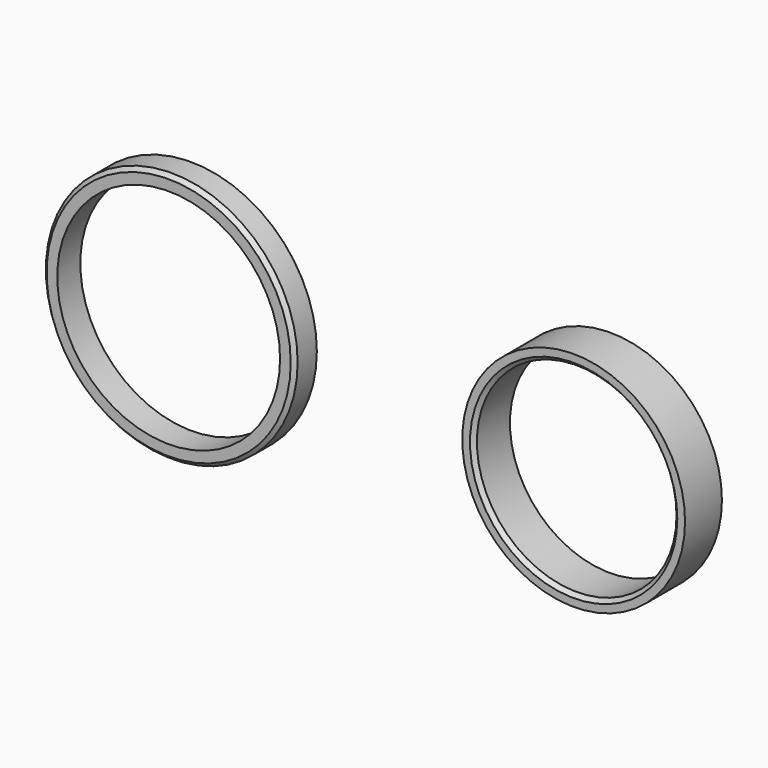
from build123d import *

# Parameters (mm, degrees)
F1_R     = 58
F1_R_2   = 51.965
F2_DEPTH = 24
F3_SIZE  = 2
F4_SIZE  = 0.5
F0_R     = 65.55
F0_R_2   = 58
F5_DEPTH = 15
F6_SIZE  = 2
F7_SIZE  = 0.5


with BuildPart() as f2:
    # F1 (on Front) → F2 (new body)
    with BuildSketch(Plane.XZ):
        with Locations((218.054354, 0)):
            Circle(F1_R)
        with Locations((218.054354, 0)):
            Circle(F1_R_2, mode=Mode.SUBTRACT)
    extrude(amount=F2_DEPTH)

    # F3
    f3_edges = [f2.edges().sort_by_distance(p)[0] for p in [
        (166.089354, -24, 0),
    ]]
    chamfer(f3_edges, length=F3_SIZE)

    # F4
    f4_edges = [f2.edges().sort_by_distance(p)[0] for p in [
        (166.089354, 0, 0),
    ]]
    chamfer(f4_edges, length=F4_SIZE)


with BuildPart() as f5:
    # F0 (on Front) → F5 (new body)
    with BuildSketch(Plane.XZ):
        Circle(F0_R)
        Circle(F0_R_2, mode=Mode.SUBTRACT)
    extrude(amount=F5_DEPTH)

    # F6
    f6_edges = [f5.edges().sort_by_distance(p)[0] for p in [
        (-65.55, -15, 0),
    ]]
    chamfer(f6_edges, length=F6_SIZE)

    # F7
    f7_edges = [f5.edges().sort_by_distance(p)[0] for p in [
        (-65.55, 0, 0),
    ]]
    chamfer(f7_edges, length=F7_SIZE)


solid = Compound([f2.part, f5.part])
